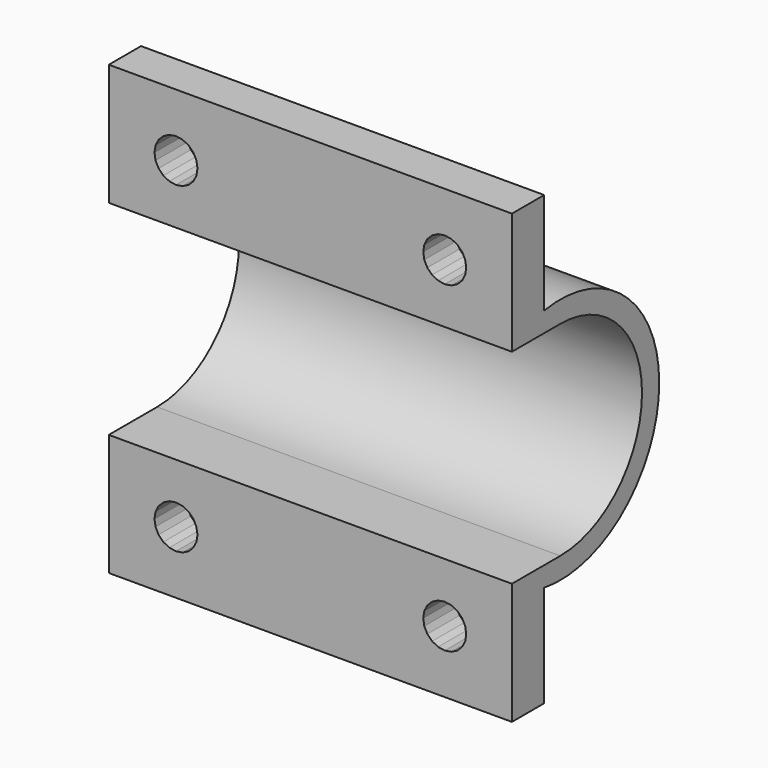
from build123d import *

# Parameters (mm, degrees)
PRISM070_DEPTH                = 10
PRISM070_PITCH_ANGLE          = 90
PRISM071_DEPTH                = 10
PRISM071_PITCH_ANGLE          = 90
PRISM072_DEPTH                = 10
PRISM072_PITCH_ANGLE          = 90
PRISM073_DEPTH                = 10
PRISM073_PITCH_ANGLE          = 90
CUBE082_W                     = 5
CUBE082_H                     = 35
CUBE082_DEPTH                 = 32
CUBE081_W                     = 16
CUBE081_H                     = 15.2
CUBE081_DEPTH                 = 30
CUBE077_W                     = 3
CUBE077_H                     = 11.7
CUBE077_DEPTH                 = 30
CUBE078_W                     = 3
CUBE078_H                     = 11.7
CUBE078_DEPTH                 = 30
CUBE079_W                     = 1.6
CUBE079_H                     = 1.6
CUBE079_DEPTH                 = 30
CUBE080_W                     = 1.6
CUBE080_H                     = 1.6
CUBE080_DEPTH                 = 30
CYLINDER021_R                 = 7.6
CYLINDER021_DEPTH             = 30
CYLINDER020_R                 = 9.2
CYLINDER020_DEPTH             = 30
DIFFERENCE050_ROLL_ANGLE      = 90
DIFFERENCE050_PLACEMENT_ANGLE = 90


with BuildPart() as prism070:
    # prism070 → prism070 (new body)
    with BuildSketch(Plane.XY):
        Polygon((1.6, 0), (1.52169, 0.494427), (1.294427, 0.940456), (0.940456, 1.294427), (0.494427, 1.52169), (0, 1.6), (-0.494427, 1.52169), (-0.940456, 1.294427), (-1.294427, 0.940456), (-1.52169, 0.494427), (-1.6, 0), (-1.52169, -0.494427), (-1.294427, -0.940456), (-0.940456, -1.294427), (-0.494427, -1.52169), (0, -1.6), (0.494427, -1.52169), (0.940456, -1.294427), (1.294427, -0.940456), (1.52169, -0.494427), align=None)
    extrude(amount=PRISM070_DEPTH)


with BuildPart() as prism070_1:
    # prism070 pitch: moved
    add(prism070.part.rotate(Axis((0, 0, 0), (0, 1, 0)), PRISM070_PITCH_ANGLE))


with BuildPart() as prism070_2:
    # prism070 placement: moved
    add(prism070_1.part.moved(Location((-10, 12, 10))))


with BuildPart() as prism071:
    # prism071 → prism071 (new body)
    with BuildSketch(Plane.XY):
        Polygon((1.6, 0), (1.52169, 0.494427), (1.294427, 0.940456), (0.940456, 1.294427), (0.494427, 1.52169), (0, 1.6), (-0.494427, 1.52169), (-0.940456, 1.294427), (-1.294427, 0.940456), (-1.52169, 0.494427), (-1.6, 0), (-1.52169, -0.494427), (-1.294427, -0.940456), (-0.940456, -1.294427), (-0.494427, -1.52169), (0, -1.6), (0.494427, -1.52169), (0.940456, -1.294427), (1.294427, -0.940456), (1.52169, -0.494427), align=None)
    extrude(amount=PRISM071_DEPTH)


with BuildPart() as prism071_1:
    # prism071 pitch: moved
    add(prism071.part.rotate(Axis((0, 0, 0), (0, 1, 0)), PRISM071_PITCH_ANGLE))


with BuildPart() as prism071_2:
    # prism071 placement: moved
    add(prism071_1.part.moved(Location((-10, 12, -10))))


with BuildPart() as prism072:
    # prism072 → prism072 (new body)
    with BuildSketch(Plane.XY):
        Polygon((1.6, 0), (1.52169, 0.494427), (1.294427, 0.940456), (0.940456, 1.294427), (0.494427, 1.52169), (0, 1.6), (-0.494427, 1.52169), (-0.940456, 1.294427), (-1.294427, 0.940456), (-1.52169, 0.494427), (-1.6, 0), (-1.52169, -0.494427), (-1.294427, -0.940456), (-0.940456, -1.294427), (-0.494427, -1.52169), (0, -1.6), (0.494427, -1.52169), (0.940456, -1.294427), (1.294427, -0.940456), (1.52169, -0.494427), align=None)
    extrude(amount=PRISM072_DEPTH)


with BuildPart() as prism072_1:
    # prism072 pitch: moved
    add(prism072.part.rotate(Axis((0, 0, 0), (0, 1, 0)), PRISM072_PITCH_ANGLE))


with BuildPart() as prism072_2:
    # prism072 placement: moved
    add(prism072_1.part.moved(Location((-10, -12, 10))))


with BuildPart() as prism073:
    # prism073 → prism073 (new body)
    with BuildSketch(Plane.XY):
        Polygon((1.6, 0), (1.52169, 0.494427), (1.294427, 0.940456), (0.940456, 1.294427), (0.494427, 1.52169), (0, 1.6), (-0.494427, 1.52169), (-0.940456, 1.294427), (-1.294427, 0.940456), (-1.52169, 0.494427), (-1.6, 0), (-1.52169, -0.494427), (-1.294427, -0.940456), (-0.940456, -1.294427), (-0.494427, -1.52169), (0, -1.6), (0.494427, -1.52169), (0.940456, -1.294427), (1.294427, -0.940456), (1.52169, -0.494427), align=None)
    extrude(amount=PRISM073_DEPTH)


with BuildPart() as prism073_1:
    # prism073 pitch: moved
    add(prism073.part.rotate(Axis((0, 0, 0), (0, 1, 0)), PRISM073_PITCH_ANGLE))


with BuildPart() as prism073_2:
    # prism073 placement: moved
    add(prism073_1.part.moved(Location((-10, -12, -10))))


with BuildPart() as cube082:
    # cube082 → cube082 (new body)
    with BuildSketch(Plane(origin=(-9.5, -17.5, -16), x_dir=(1, 0, 0), z_dir=(0, 0, 1))):
        with Locations((2.5, 17.5)):
            Rectangle(CUBE082_W, CUBE082_H)
    extrude(amount=CUBE082_DEPTH)


with BuildPart() as union038:
    # cube081 → cube081 (new body)
    with BuildSketch(Plane(origin=(-16, -7.6, -15), x_dir=(1, 0, 0), z_dir=(0, 0, 1))):
        with Locations((8, 7.6)):
            Rectangle(CUBE081_W, CUBE081_H)
    extrude(amount=CUBE081_DEPTH)

    # union038: union prism070, prism071, prism072, prism073, cube082
    add(prism070_2.part)
    add(prism071_2.part)
    add(prism072_2.part)
    add(prism073_2.part)
    add(cube082.part)


with BuildPart() as cube077:
    # cube077 → cube077 (new body)
    with BuildSketch(Plane(origin=(-4.5, 4.95, -15), x_dir=(1, 0, 0), z_dir=(0, 0, 1))):
        with Locations((1.5, 5.85)):
            Rectangle(CUBE077_W, CUBE077_H)
    extrude(amount=CUBE077_DEPTH)


with BuildPart() as cube078:
    # cube078 → cube078 (new body)
    with BuildSketch(Plane(origin=(-4.5, -16.65, -15), x_dir=(1, 0, 0), z_dir=(0, 0, 1))):
        with Locations((1.5, 5.85)):
            Rectangle(CUBE078_W, CUBE078_H)
    extrude(amount=CUBE078_DEPTH)


with BuildPart() as cube079:
    # cube079 → cube079 (new body)
    with BuildSketch(Plane(origin=(-4.6, 7.5, -15), x_dir=(1, 0, 0), z_dir=(0, 0, 1))):
        with Locations((0.8, 0.8)):
            Rectangle(CUBE079_W, CUBE079_H)
    extrude(amount=CUBE079_DEPTH)


with BuildPart() as cube080:
    # cube080 → cube080 (new body)
    with BuildSketch(Plane(origin=(-4.6, -9.1, -15), x_dir=(1, 0, 0), z_dir=(0, 0, 1))):
        with Locations((0.8, 0.8)):
            Rectangle(CUBE080_W, CUBE080_H)
    extrude(amount=CUBE080_DEPTH)


with BuildPart() as cylinder021:
    # cylinder021 → cylinder021 (new body)
    with BuildSketch(Plane.XY.offset(-15)):
        Circle(CYLINDER021_R)
    extrude(amount=CYLINDER021_DEPTH)


with BuildPart() as difference050:
    # cylinder020 → cylinder020 (new body)
    with BuildSketch(Plane.XY.offset(-15)):
        Circle(CYLINDER020_R)
    extrude(amount=CYLINDER020_DEPTH)

    # difference049: cut cylinder021
    add(cylinder021.part, mode=Mode.SUBTRACT)

    # union037: union cube077, cube078, cube079, cube080
    add(cube077.part)
    add(cube078.part)
    add(cube079.part)
    add(cube080.part)

    # difference050: cut union038
    add(union038.part, mode=Mode.SUBTRACT)


with BuildPart() as difference050_1:
    # difference050 roll: moved
    add(difference050.part.rotate(Axis((0, 0, 0), (1, 0, 0)), DIFFERENCE050_ROLL_ANGLE))


with BuildPart() as difference050_2:
    # difference050 placement: moved
    add(difference050_1.part.moved(Location((298, 252, 340))).rotate(Axis((298, 252, 340), (0, 0, 1)), DIFFERENCE050_PLACEMENT_ANGLE))


solid = difference050_2.part
